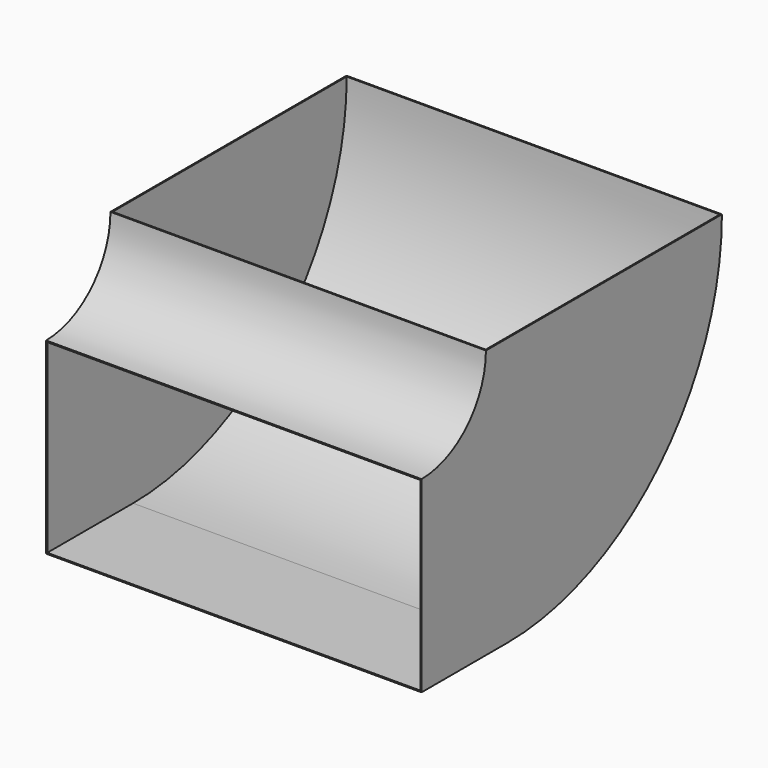
from build123d import *

# Parameters (mm, degrees)
F1_DEPTH = 355.6
F2_T     = -1.1176


with BuildPart() as f1:
    # F0 (on Right) → F1 (new body)
    with BuildSketch(Plane.YZ):
        with BuildLine():
            ThreePointArc((0, 0), (-22.318463, -53.881537), (-76.2, -76.2))
            Line((-76.2, -76.2), (-76.2, -254))
            Line((-76.2, -254), (25.4, -254))
            ThreePointArc((25.4, -254), (205.005122, -179.605122), (279.4, 0))
            Line((279.4, 0), (0, 0))
        make_face()
    extrude(amount=F1_DEPTH)

    # F2
    f2_openings = [f1.faces().sort_by_distance(p)[0] for p in [
        (177.8, 139.7, 0),
        (177.8, -76.2, -165.1),
    ]]
    offset(amount=F2_T, openings=f2_openings)


solid = f1.part
